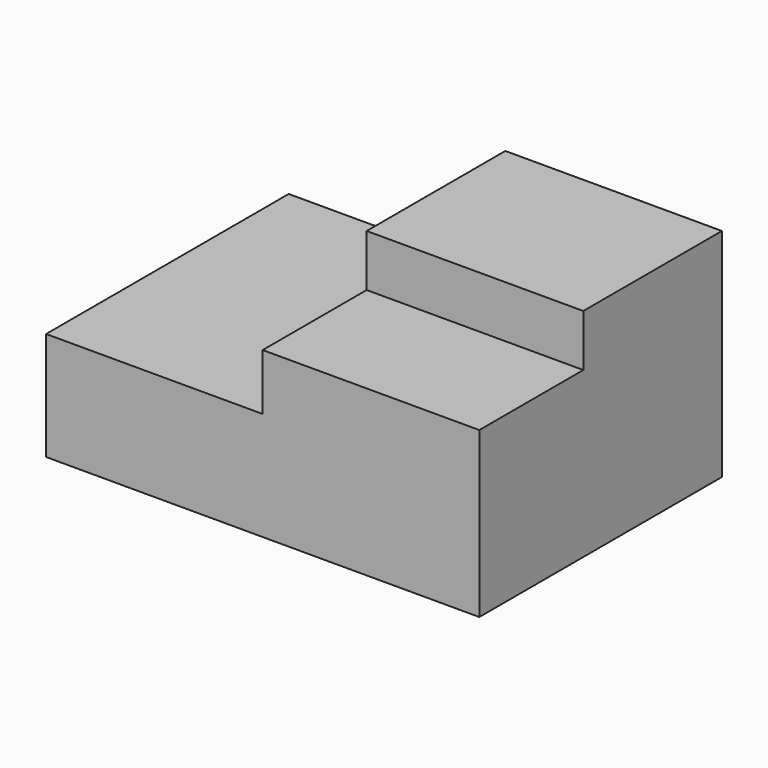
from build123d import *

# Parameters (mm, degrees)
F0_W     = 2540
F0_H     = 1778
F1_DEPTH = 1270
F2_W     = 1270
F2_H     = 635
F3_DEPTH = 1778.001
F4_W     = 1270
F4_H     = 304.8
F5_DEPTH = 762


with BuildPart() as f1:
    # F0 (on Top) → F1 (new body)
    with BuildSketch(Plane.XY):
        with Locations((1270, 889)):
            Rectangle(F0_W, F0_H)
    extrude(amount=F1_DEPTH)

    # F2 (on face) → F3 (cut, through all)
    with BuildSketch(Plane.XZ):
        with Locations((635, 952.5)):
            Rectangle(F2_W, F2_H)
    extrude(amount=-F3_DEPTH, mode=Mode.SUBTRACT)

    # F4 (on face) → F5 (cut)
    with BuildSketch(Plane.XZ):
        with Locations((1905, 1117.6)):
            Rectangle(F4_W, F4_H)
    extrude(amount=-F5_DEPTH, mode=Mode.SUBTRACT)


solid = f1.part
